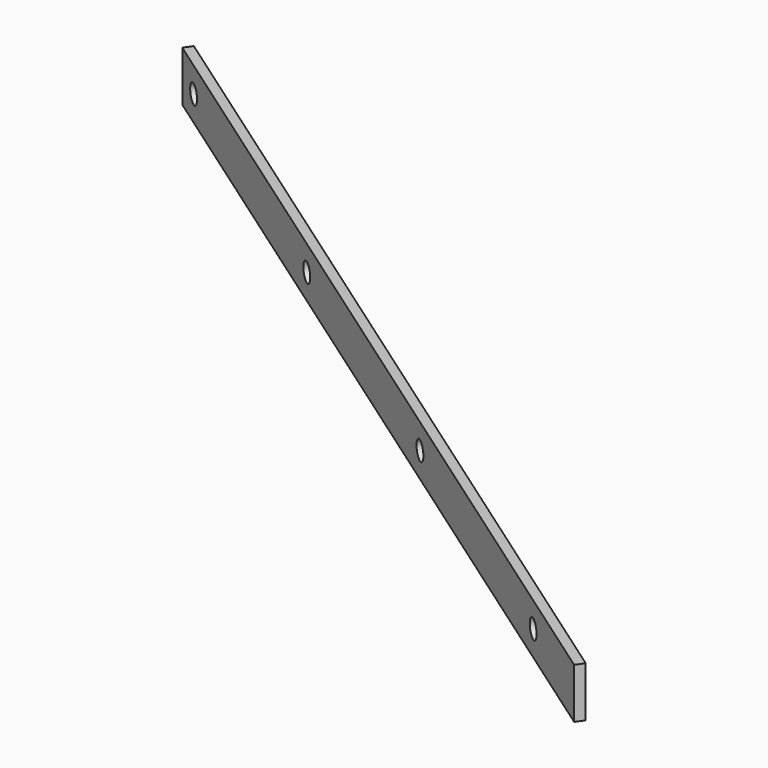
from build123d import *

# Parameters (mm, degrees)
PAD011_DEPTH           = 32
SKETCH048_R            = 6
POCKET006_DEPTH        = 331.323772
LINEARPATTERN004_COUNT = 4
LINEARPATTERN004_PITCH = 200


with BuildPart() as part:
    # Sketch047 → Pad011 (new body)
    with BuildSketch(Plane.XY):
        Polygon((-556.862366, 411.885088), (10.320579, 14.739314), (13.762038, 19.654226), (-553.420907, 416.8), align=None)
    extrude(amount=PAD011_DEPTH)

    # Sketch048 (on Face1 of Pad011) → Pocket006 (cut, through all)
    with BuildSketch(Plane(origin=(10.320579, 14.739314, 0), x_dir=(0.819152, -0.573576, 0), z_dir=(-0.573576, -0.819152, 0))):
        with Locations((-672.402526, 16)):
            Circle(SKETCH048_R)
    pocket006 = extrude(amount=-POCKET006_DEPTH, mode=Mode.SUBTRACT)

    # LinearPattern004: Pocket006 ×4
    with Locations(*[Vector(0.819152, -0.573576, 0) * (i * LINEARPATTERN004_PITCH) for i in range(1, LINEARPATTERN004_COUNT)]):
        add(pocket006, mode=Mode.SUBTRACT)


with BuildPart() as part_1:
    # Body008 placement: moved
    add(part.part.moved(Location((0, 0, 9))))


solid = part_1.part
